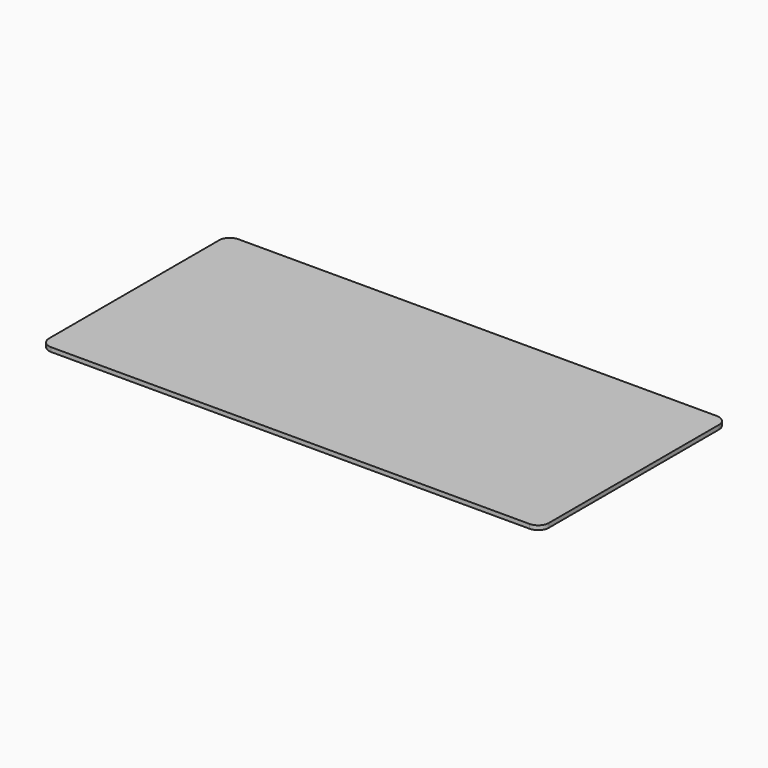
from build123d import *

# Parameters (mm, degrees)
SKETCH_W    = 470
SKETCH_H    = 220
PAD_DEPTH   = 4
FILLET_R    = 10
FILLET001_R = 10
FILLET002_R = 10
FILLET003_R = 10


with BuildPart() as part:
    # Sketch → Pad (new body)
    with BuildSketch(Plane.XY):
        with Locations((113.290486, 6.298135)):
            Rectangle(SKETCH_W, SKETCH_H)
    extrude(amount=PAD_DEPTH)

    # Fillet
    fillet_edges = [part.edges().sort_by_distance(p)[0] for p in [
        (348.290486, -103.701865, 2),
    ]]
    fillet(fillet_edges, radius=FILLET_R)

    # Fillet001
    fillet001_edges = [part.edges().sort_by_distance(p)[0] for p in [
        (348.290486, 116.298135, 2),
    ]]
    fillet(fillet001_edges, radius=FILLET001_R)

    # Fillet002
    fillet002_edges = [part.edges().sort_by_distance(p)[0] for p in [
        (-121.709514, -103.701865, 2),
    ]]
    fillet(fillet002_edges, radius=FILLET002_R)

    # Fillet003
    fillet003_edges = [part.edges().sort_by_distance(p)[0] for p in [
        (-121.709514, 116.298135, 2),
    ]]
    fillet(fillet003_edges, radius=FILLET003_R)


with BuildPart() as part_1:
    # Body placement: moved
    add(part.part.moved(Location((-197, -0.5, -13))))


solid = part_1.part
